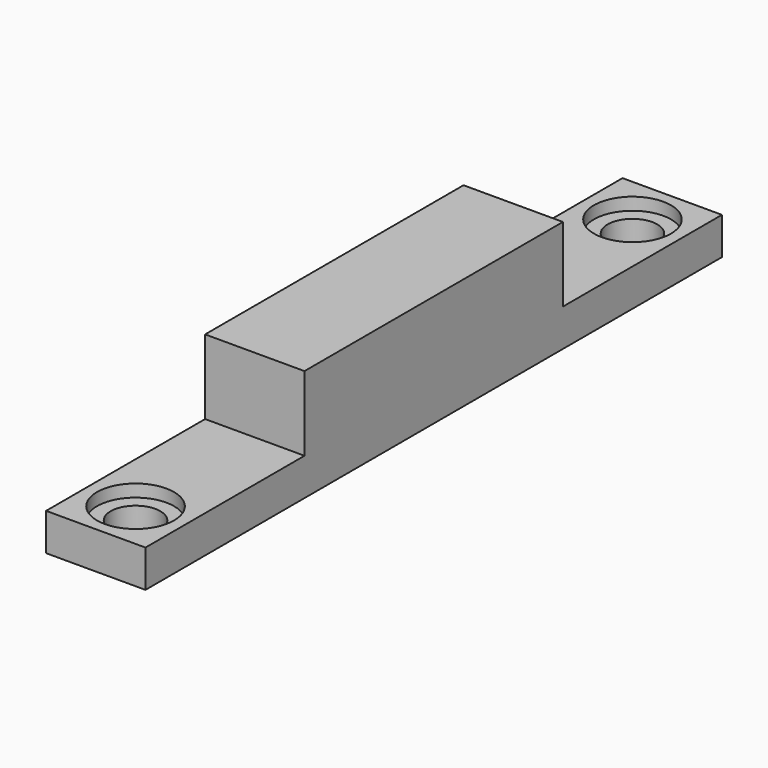
from build123d import *

# Parameters (mm, degrees)
SKETCH_W        = 8
SKETCH_H        = 58
PAD_DEPTH       = 3
SKETCH001_W     = 8
SKETCH001_H     = 26
PAD001_DEPTH    = 6
SKETCH002_R     = 2
POCKET_DEPTH    = 5
SKETCH003_R     = 3.1
POCKET001_DEPTH = 1


with BuildPart() as part:
    # Sketch → Pad (new body)
    with BuildSketch(Plane.XY):
        with Locations((4, 29)):
            Rectangle(SKETCH_W, SKETCH_H)
    extrude(amount=PAD_DEPTH)

    # Sketch001 (on Face6 of Pad) → Pad001 (join)
    with BuildSketch(Plane.XY.offset(3)):
        with Locations((4, 29)):
            Rectangle(SKETCH001_W, SKETCH001_H)
    extrude(amount=PAD001_DEPTH)

    # Sketch002 (on Face4 of Pad001) → Pocket (cut)
    with BuildSketch(Plane(origin=(0, 0, 0), x_dir=(1, 0, 0), z_dir=(0, 0, -1))):
        with Locations((4, -4)):
            Circle(SKETCH002_R)
        with Locations((4, -54)):
            Circle(SKETCH002_R)
    extrude(amount=-POCKET_DEPTH, mode=Mode.SUBTRACT)

    # Sketch003 (on Face5 of Pocket) → Pocket001 (cut)
    with BuildSketch(Plane.XY.offset(3)):
        with Locations((4, 4)):
            Circle(SKETCH003_R)
        with Locations((4, 54)):
            Circle(SKETCH003_R)
    extrude(amount=-POCKET001_DEPTH, mode=Mode.SUBTRACT)


solid = part.part
